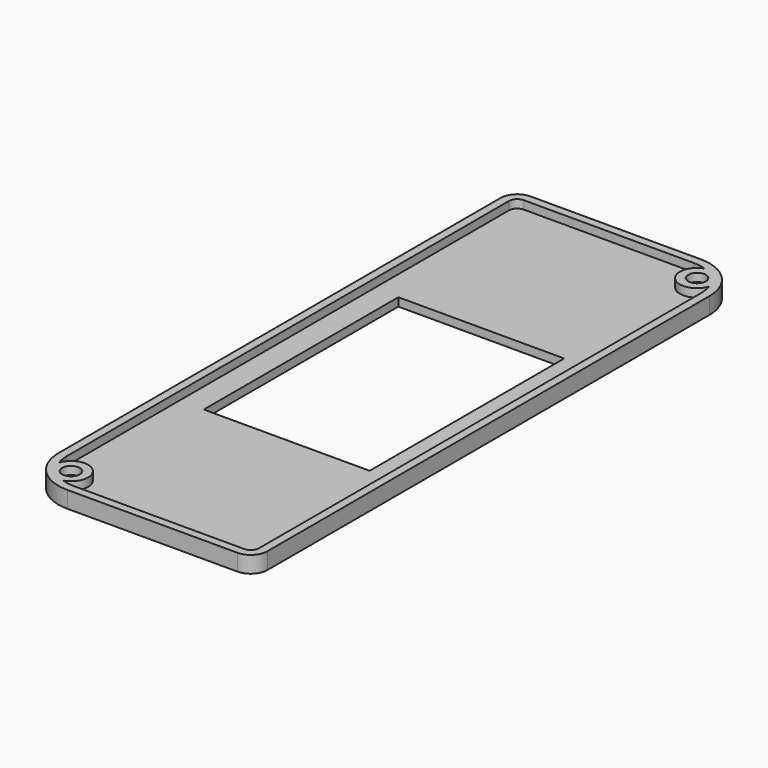
from build123d import *

# Parameters (mm, degrees)
F0_R     = 1.6
F1_DEPTH = 3
F2_T     = -1.5
F3_W     = 30
F3_H     = 44
F4_DEPTH = 1.501
F5_SIZE  = 1.55


with BuildPart() as f1:
    # F0 (on Top) → F1 (new body)
    with BuildSketch(Plane.XY):
        with BuildLine():
            Line((-12.9, -55.5), (17.9, -55.5))
            ThreePointArc((17.9, -55.5), (20.02132, -54.62132), (20.9, -52.5))
            Line((20.9, -52.5), (20.9, 47.5))
            ThreePointArc((20.9, 47.5), (18.556854, 53.156854), (12.9, 55.5))
            Line((12.9, 55.5), (-17.9, 55.5))
            ThreePointArc((-17.9, 55.5), (-20.02132, 54.62132), (-20.9, 52.5))
            Line((-20.9, 52.5), (-20.9, -47.5))
            ThreePointArc((-20.9, -47.5), (-18.556854, -53.156854), (-12.9, -55.5))
        make_face()
        with Locations((-16.081981, -50.681981)):
            Circle(F0_R, mode=Mode.SUBTRACT)
        with Locations((16.081981, 50.681981)):
            Circle(F0_R, mode=Mode.SUBTRACT)
    extrude(amount=F1_DEPTH)

    # F2
    f2_openings = [f1.faces().sort_by_distance(p)[0] for p in [
        (0, 0, 3),
    ]]
    offset(amount=F2_T, openings=f2_openings)

    # F3 (on face) → F4 (cut, through all)
    with BuildSketch(Plane.XY.offset(1.5)):
        Rectangle(F3_W, F3_H)
    extrude(amount=-F4_DEPTH, mode=Mode.SUBTRACT)

    # F5
    f5_edges = [f1.edges().sort_by_distance(p)[0] for p in [
        (14.481981, 50.681981, 0),
        (-17.681981, -50.681981, 0),
    ]]
    chamfer(f5_edges, length=F5_SIZE)


solid = f1.part
